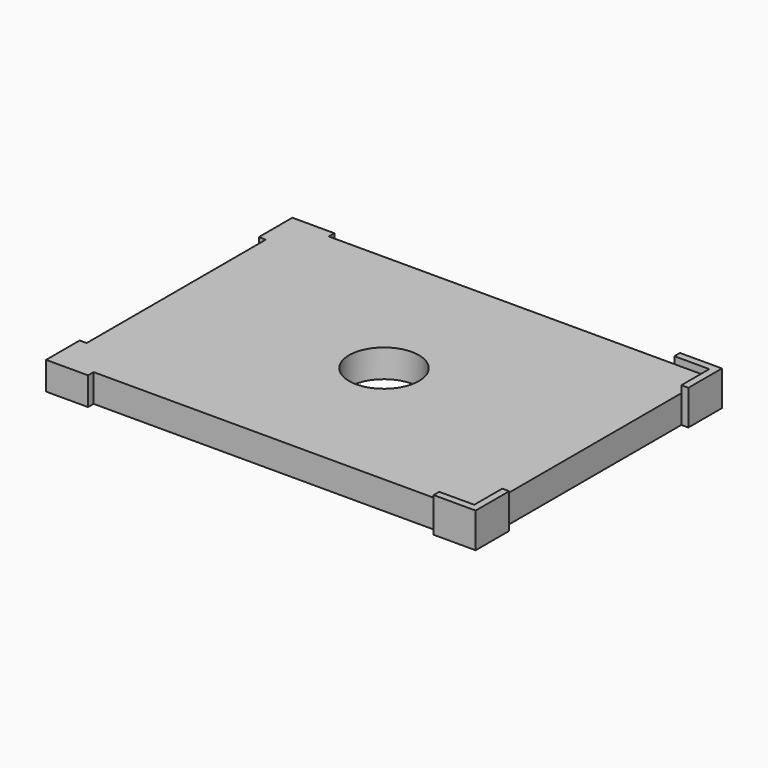
from build123d import *

# Parameters (mm, degrees)
F0_W     = 754.38
F0_H     = 533.4
F0_R     = 63.5
F2_DEPTH = 50.8
F3_DEPTH = 50.8
F4_DEPTH = 63.5


with BuildPart() as f2:
    # F0 (on Top) → F2 (new body)
    with BuildSketch(Plane.XY):
        Rectangle(F0_W, F0_H)
        Circle(F0_R, mode=Mode.SUBTRACT)
    extrude(amount=F2_DEPTH)

    # F1 (on Top) → F3 (join, through all)
    with BuildSketch(Plane.XY):
        Polygon((-389.89, -279.4), (-313.69, -279.4), (-313.69, -266.7), (-377.19, -266.7), (-377.19, -203.2), (-389.89, -203.2), align=None)
        Polygon((-313.69, 266.7), (-313.69, 279.4), (-389.89, 279.4), (-389.89, 203.2), (-377.19, 203.2), (-377.19, 266.7), align=None)
    extrude(amount=F3_DEPTH)

    # F1 (on Top) → F4 (join)
    with BuildSketch(Plane.XY):
        Polygon((389.89, -203.2), (377.19, -203.2), (377.19, -266.7), (313.69, -266.7), (313.69, -279.4), (389.89, -279.4), align=None)
        Polygon((377.19, 266.7), (377.19, 203.2), (389.89, 203.2), (389.89, 279.4), (313.69, 279.4), (313.69, 266.7), align=None)
    extrude(amount=F4_DEPTH)


solid = f2.part
